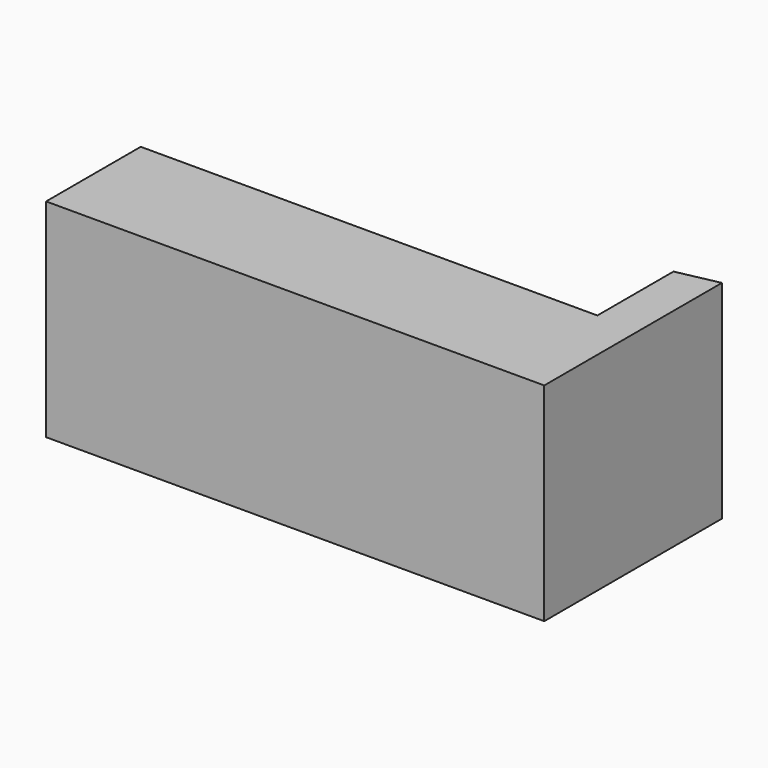
from build123d import *

# Parameters (mm, degrees)
F1_DEPTH = 15
F3_DEPTH = 10
F4_DEPTH = 3
F5_DEPTH = 5


with BuildPart() as f1:
    # F0 (on Top) → F1 (new body)
    with BuildSketch(Plane.XY):
        Polygon((30, 6.25), (30, 0), (60, 0), (60, 12.5), align=None)
        Polygon((60, 12.5), (60, 0), (90, 0), (90, 18.75), align=None)
    extrude(amount=F1_DEPTH)

    # F2 (on face) → F3 (join)
    with BuildSketch(Plane.XY.offset(15)):
        Polygon((30, 0), (90, 0), (90, 18.75), (85.0000008941, 17.7083335196), (85.0000008941, 6.25), (30, 6.25), align=None)
    extrude(amount=F3_DEPTH)

    # F4 (add): a face of the model
    f4_faces = [f1.faces().sort_by_distance(p)[0] for p in [
        (60, 0, 12.5),
    ]]
    extrude(f4_faces, amount=F4_DEPTH)

    # F5 (add): a face of the model
    f5_faces = [f1.faces().sort_by_distance(p)[0] for p in [
        (60, -3, 12.5),
    ]]
    extrude(f5_faces, amount=F5_DEPTH)


solid = f1.part
